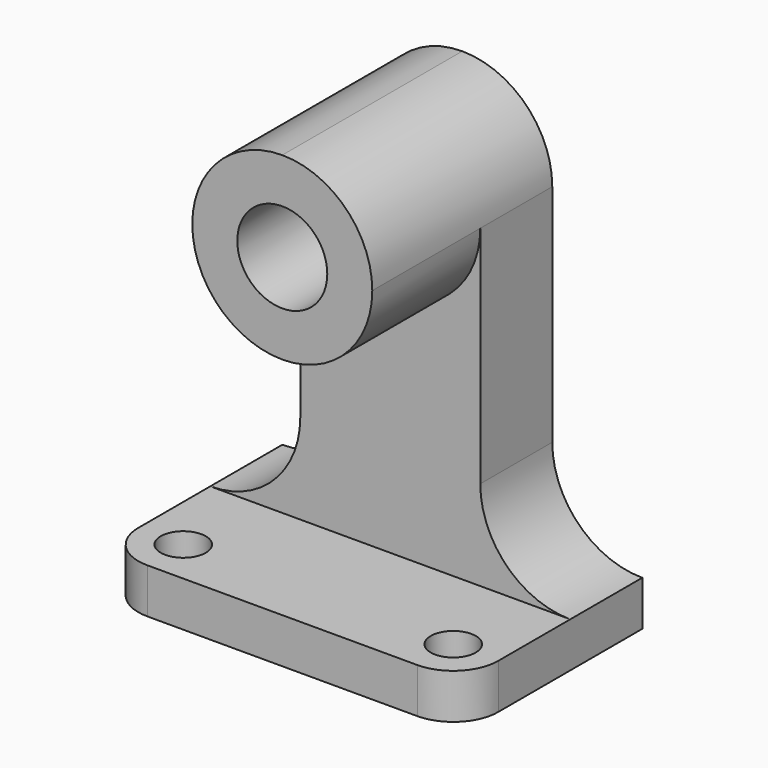
from build123d import *

# Parameters (mm, degrees)
F0_W     = 50.8
F0_H     = 63.5
F1_DEPTH = 31.75
F3_DEPTH = 31.75
F4_R     = 6.35
F5_DEPTH = 19.05
F6_R     = 3.175
F7_DEPTH = 25.4


with BuildPart() as f1:
    # F0 (on Front) → F1 (new body)
    with BuildSketch(Plane.XZ):
        with Locations((25.4, 31.75)):
            Rectangle(F0_W, F0_H)
    extrude(amount=F1_DEPTH)

    # F2 (on face) → F3 (cut)
    with BuildSketch(Plane.XZ.offset(31.75)):
        with BuildLine():
            Line((0, 63.5), (0, 6.35))
            ThreePointArc((0, 6.35), (8.980256, 10.069744), (12.7, 19.05))
            Line((12.7, 19.05), (12.7, 50.8))
            ThreePointArc((12.7, 50.8), (16.419744, 59.780256), (25.4, 63.5))
            Line((25.4, 63.5), (0, 63.5))
        make_face()
        with BuildLine():
            ThreePointArc((38.1, 19.05), (41.819744, 10.069744), (50.8, 6.35))
            Line((50.8, 6.35), (50.8, 63.5))
            Line((50.8, 63.5), (25.4, 63.5))
            ThreePointArc((25.4, 63.5), (34.380256, 59.780256), (38.1, 50.8))
            Line((38.1, 50.8), (38.1, 19.05))
        make_face()
    extrude(amount=-F3_DEPTH, mode=Mode.SUBTRACT)

    # F4 (on face) → F5 (cut)
    with BuildSketch(Plane.XZ.offset(31.75)):
        with BuildLine():
            Line((38.1, 19.05), (38.1, 50.8))
            ThreePointArc((38.1, 50.8), (25.4, 38.1), (12.7, 50.8))
            Line((12.7, 50.8), (12.7, 19.05))
            ThreePointArc((12.7, 19.05), (8.980256, 10.069744), (0, 6.35))
            Line((0, 6.35), (50.8, 6.35))
            ThreePointArc((50.8, 6.35), (41.819744, 10.069744), (38.1, 19.05))
        make_face()
        with Locations((25.4, 50.8)):
            Circle(F4_R)
    extrude(amount=-F5_DEPTH, mode=Mode.SUBTRACT)

    # F6 (on face) → F7 (cut)
    with BuildSketch(Plane.XY.offset(6.35)):
        with Locations((6.35, -25.4)):
            Circle(F6_R)
        with BuildLine():
            ThreePointArc((6.35, -31.75), (1.859872, -29.890128), (0, -25.4))
            Line((0, -25.4), (0, -31.75))
            Line((0, -31.75), (6.35, -31.75))
        make_face()
        with Locations((44.45, -25.4)):
            Circle(F6_R)
        with BuildLine():
            ThreePointArc((50.8, -25.4), (48.940128, -29.890128), (44.45, -31.75))
            Line((44.45, -31.75), (50.8, -31.75))
            Line((50.8, -31.75), (50.8, -25.4))
        make_face()
    extrude(amount=-F7_DEPTH, mode=Mode.SUBTRACT)


solid = f1.part
